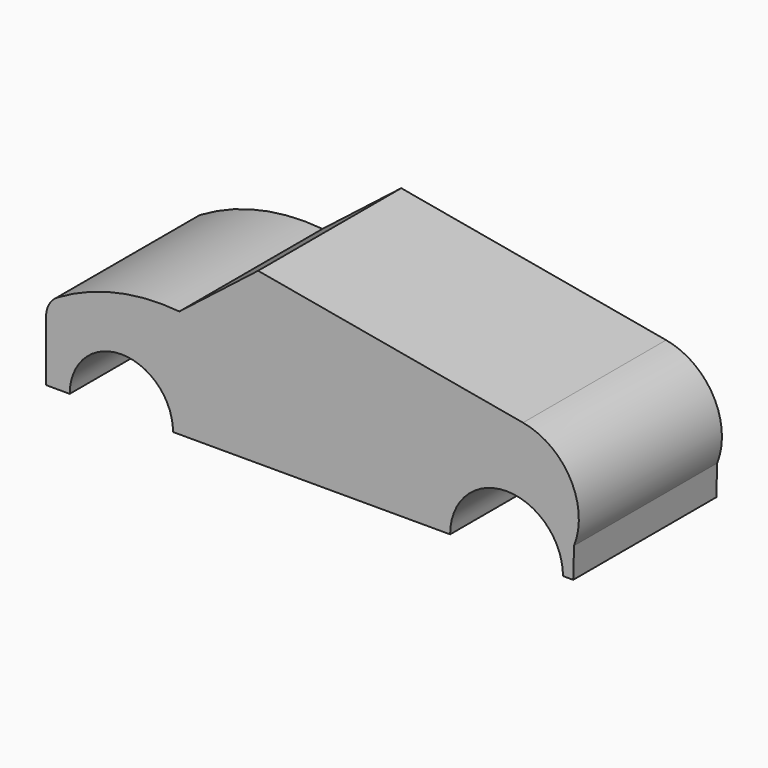
from build123d import *

# Parameters (mm, degrees)
F2_DEPTH = 19.05
F3_R     = 5.08


with BuildPart() as f2:
    # F1 (on Front) → F2 (new body, symmetric)
    with BuildSketch(Plane.XZ):
        Polygon((-12.7204842865, 35.3961288929), (-29.6811293811, 22.6756446064), (-2.9496776406, 22.6756446064), (1.2904835166, 31.8933874369), align=None)
    extrude(amount=F2_DEPTH, both=True)


with BuildPart() as f2b:
    # F0 (on Front) → F2, piece 2 (new body, symmetric)
    with BuildSketch(Plane.XZ):
        with BuildLine():
            ThreePointArc((28.170890437, 0), (40.1893556118, 12.0184651748), (52.2078207866, 0))
            Line((52.2078207866, 0), (54.3846786022, 0))
            Line((54.3846786022, 0), (54.5690320432, 6.4524193294))
            ThreePointArc((54.5690320432, 6.4524193294), (53.76069051, 18.8003713821), (43.6920970678, 25.9940326214))
            Line((43.6920970678, 25.9940326214), (-12.7204842865, 36.1335463822))
            Line((-12.7204842865, 36.1335463822), (-29.4967740774, 23.0443552136))
            ThreePointArc((-29.4967740774, 23.0443552136), (-44.3407825455, 21.8546976248), (-57.8874200583, 15.6701616943))
            Line((-57.8874200583, 15.6701616943), (-57.8874200583, 0))
            Line((-57.8874200583, 0), (-52.8513044571, 0))
            ThreePointArc((-52.8513044571, 0), (-41.8485477567, 11.0027567004), (-30.8457910562, 0))
            Line((-30.8457910562, 0), (28.170890437, 0))
        make_face()
    extrude(amount=F2_DEPTH, both=True)

    # F3
    f3_edges = [f2b.edges().sort_by_distance(p)[0] for p in [
        (43.692097, 0, 25.994033),
        (-57.88742, 0, 15.670162),
    ]]
    fillet(f3_edges, radius=F3_R)


solid = Compound([f2.part, f2b.part])
